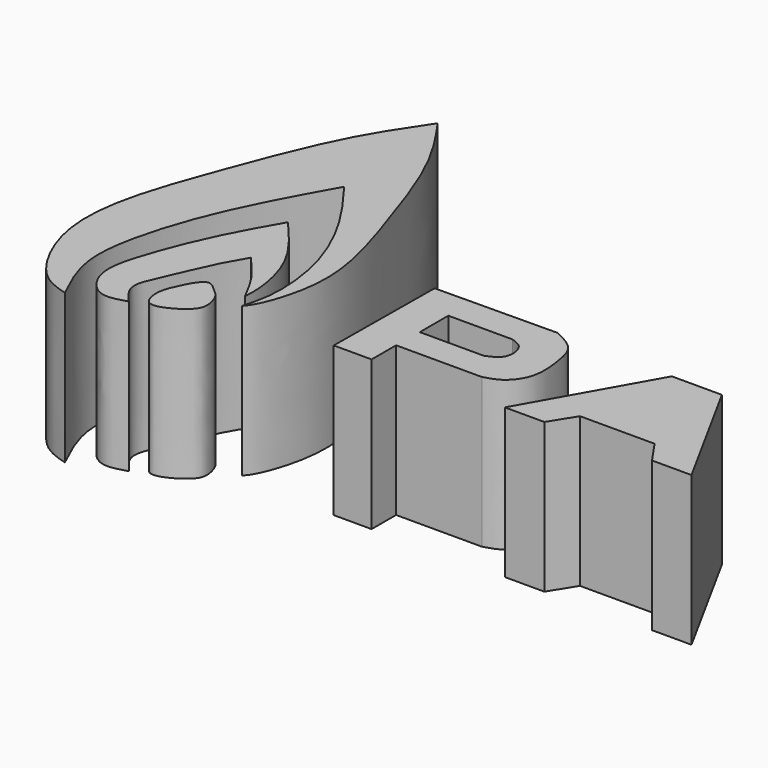
from build123d import *

# Parameters (mm, degrees)
F1_DEPTH = 25


with BuildPart() as f1:
    # F0 (on Top) → F1 (new body)
    with BuildSketch(Plane.XY):
        with BuildLine():
            add(Edge.make_bspline(
                [(-41.9576913118, -6.8883672357), (-41.5673358646, -6.405844601), (-40.3257218658, -4.871071967), (-36.6268515013, 6.4569250109), (-41.888383972, 22.9126051539), (-47.6062593685, 39.8160615159), (-52.2445315368, 46.4850153043), (-54.3009452522, 49.4417473674)],
                knots=[0, 0, 0, 0, 0.0904713648, 0.2877646867, 0.5420700343, 0.7969732202, 1, 1, 1, 1], degree=3))
            add(Edge.make_bspline(
                [(-54.3009452522, 49.4417473674), (-56.6245127919, 46.004743089), (-61.7542486483, 38.4168749578), (-68.4753149095, 20.5243591535), (-73.5796686045, 6.2834538502), (-73.8921084571, -6.0251397612), (-67.9934251663, -16.7878783638), (-64.006824621, -17.9655930829), (-62.3801648617, -18.4461381286)],
                knots=[0, 0, 0, 0, 0.1720572884, 0.3798505644, 0.5652547717, 0.7304797716, 0.8900271786, 1, 1, 1, 1], degree=3))
            add(Edge.make_bspline(
                [(-62.3801648617, -18.4461381286), (-63.62310697, -15.8479508859), (-66.1254432197, -10.6171858509), (-65.5783484616, -1.5758999211), (-61.1693984228, 12.4462867939), (-55.5676507776, 22.4938889957), (-52.6177734137, 27.7849510312)],
                knots=[0, 0, 0, 0, 0.209053081, 0.4208732645, 0.6950321656, 1, 1, 1, 1], degree=3))
            add(Edge.make_bspline(
                [(-52.6177734137, 27.7849510312), (-50.4636866552, 24.8953623282), (-46.0899977938, 19.0282996973), (-41.4299930238, 8.5543105111), (-40.5096135621, -1.4762334808), (-41.5256790902, -5.2737385131), (-41.9576913118, -6.8883672357)],
                knots=[0, 0, 0, 0, 0.2716158812, 0.5514928075, 0.8093030584, 1, 1, 1, 1], degree=3))
        make_face()
    extrude(amount=F1_DEPTH)


with BuildPart() as f1b:
    # F0 (on Top) → F1, piece 2 (new body)
    with BuildSketch(Plane.XY):
        with BuildLine():
            add(Edge.make_bspline(
                [(-54.3009452522, -15.1717299595), (-55.8182732839, -15.631838156), (-59.0076663574, -16.5989763518), (-62.9994129372, -11.1452431495), (-61.1788195389, -3.8303104318), (-57.2168858544, 6.3730874569), (-53.7720303589, 12.3857429005), (-52.074175328, 15.3491813689)],
                knots=[0, 0, 0, 0, 0.1536975661, 0.3230691996, 0.5203691576, 0.763605864, 1, 1, 1, 1], degree=3))
            add(Edge.make_bspline(
                [(-49.6048480272, 4.4841314666), (-50.4209135907, 3.1020925548), (-52.2272735252, 0.042951439), (-54.9835412089, -6.7619114207), (-57.435652053, -11.6598522373), (-55.3173477024, -14.0330329941), (-54.3009452522, -15.1717299595)],
                knots=[0, 0, 0, 0, 0.2439482649, 0.5399791285, 0.7792732943, 1, 1, 1, 1], degree=3))
            add(Edge.make_bspline(
                [(-43.3821380138, -4.5042280108), (-44.1658867861, -2.9818295146), (-45.7774817354, 0.1486248021), (-48.3059970245, 3.012838481), (-49.6048480272, 4.4841314666)],
                knots=[0, 0, 0, 0, 0.4863187072, 1, 1, 1, 1], degree=3))
            add(Edge.make_bspline(
                [(-52.074175328, 15.3491813689), (-49.5377585702, 12.4242643667), (-44.8644959882, 7.035203149), (-43.186499889, -1.2411944036), (-43.3280079894, -3.6013973941), (-43.3821380138, -4.5042280108)],
                knots=[0, 0, 0, 0, 0.4229460762, 0.7792639226, 1, 1, 1, 1], degree=3))
        make_face()
    extrude(amount=F1_DEPTH)


with BuildPart() as f1c:
    # F0 (on Top) → F1, piece 3 (new body)
    with BuildSketch(Plane.XY):
        with BuildLine():
            add(Edge.make_bspline(
                [(-49.6048480272, -4.5042280108), (-50.5433736889, -4.6687663832), (-52.2577599013, -8.1075176875), (-53.2570444245, -10.7419821808), (-52.4595683121, -14.3184464517), (-49.4275431362, -13.774126809), (-46.2608954823, -11.6964249922), (-45.3491672717, -9.739223844), (-46.2925375933, -6.6704537987), (-47.5817941371, -5.854146678), (-48.9071297656, -4.3819069791), (-49.6048480272, -4.5042280108)],
                knots=[0, 0, 0, 0, 0.1362793679, 0.2572290599, 0.3691433177, 0.4740752248, 0.6038306559, 0.6990984055, 0.8120566454, 0.8986872628, 1, 1, 1, 1], degree=3))
        make_face()
    extrude(amount=F1_DEPTH)


with BuildPart() as f1d:
    # F0 (on Top) → F1, piece 4 (new body)
    with BuildSketch(Plane.XY):
        with BuildLine():
            add(Edge.make_bspline(
                [(-25.4437588155, 12.7207208425), (-18.613509989, 12.7828139812), (-11.7832611625, 12.8449071199), (-4.953012336, 12.9070002586)],
                knots=[0, 0, 0, 0, 20.4915931862, 20.4915931862, 20.4915931862, 20.4915931862], degree=3))
            add(Edge.make_bspline(
                [(-25.4437588155, 12.7207208425), (-25.5058519542, 5.7662855834), (-25.5679450929, -1.1881496757), (-25.6300382316, -8.1425849348)],
                knots=[0, 0, 0, 0, 20.8641373648, 20.8641373648, 20.8641373648, 20.8641373648], degree=3))
            add(Edge.make_bspline(
                [(-25.6300382316, -8.1425849348), (-23.5188702742, -8.1425849348), (-21.4077023168, -8.1425849348), (-19.2965343595, -8.1425849348)],
                knots=[0, 0, 0, 0, 6.3335038722, 6.3335038722, 6.3335038722, 6.3335038722], degree=3))
            add(Edge.make_bspline(
                [(-19.2965343595, -8.1425849348), (-19.2965343595, -6.4350225342), (-19.2965343595, -4.7274601335), (-19.2965343595, -3.0198977329)],
                knots=[0, 0, 0, 0, 5.1226872019, 5.1226872019, 5.1226872019, 5.1226872019], degree=3))
            add(Edge.make_bspline(
                [(-19.2965343595, -3.0198977329), (-14.5153603517, -3.0198977329), (-9.7341863438, -3.0198977329), (-4.953012336, -3.0198977329)],
                knots=[0, 0, 0, 0, 14.3435220234, 14.3435220234, 14.3435220234, 14.3435220234], degree=3))
            add(Edge.make_bspline(
                [(-4.953012336, -3.0198977329), (-4.0254750418, -2.7604396842), (-2.0180779612, -2.1989147377), (0.6194293511, 1.2911331305), (0.0972323567, 6.656257704), (-0.8124248147, 10.8576916153), (-3.555134503, 12.2151459961), (-4.953012336, 12.9070002586)],
                knots=[0, 0, 0, 0, 0.1692146105, 0.3662180673, 0.594260818, 0.7932067652, 1, 1, 1, 1], degree=3))
        make_face()
        with BuildLine():
            Line((-19.2033946514, 1.8233696464), (-19.2033946514, 7.3186149821))
            add(Edge.make_bspline(
                [(-19.2033946514, 7.7843139879), (-19.2033946514, 7.629080986), (-19.2033946514, 7.473847984), (-19.2033946514, 7.3186149821)],
                knots=[0, 0, 0, 0, 0.4656990059, 0.4656990059, 0.4656990059, 0.4656990059], degree=3))
            add(Edge.make_bspline(
                [(-8.49232357, 7.7843139879), (-12.0626805971, 7.7843139879), (-15.6330376243, 7.7843139879), (-19.2033946514, 7.7843139879)],
                knots=[0, 0, 0, 0, 10.7110710815, 10.7110710815, 10.7110710815, 10.7110710815], degree=3))
            add(Edge.make_bspline(
                [(-8.49232357, 1.8233696464), (-7.5344311052, 2.2310746944), (-5.5830776866, 3.0616237053), (-6.0332760338, 6.9862959661), (-7.7088715367, 7.5300656123), (-8.49232357, 7.7843139879)],
                knots=[0, 0, 0, 0, 0.3392235658, 0.6910431903, 1, 1, 1, 1], degree=3))
            Line((-8.49232357, 1.8233696464), (-19.2033946514, 1.8233696464))
        make_face(mode=Mode.SUBTRACT)
    extrude(amount=F1_DEPTH)


with BuildPart() as f1e:
    # F0 (on Top) → F1, piece 5 (new body)
    with BuildSketch(Plane.XY):
        with BuildLine():
            add(Edge.make_bspline(
                [(14.3269179389, 12.6275811344), (10.4771410891, 5.7973324632), (6.6273642393, -1.0329162081), (2.7775873896, -7.8631648794)],
                knots=[0, 0, 0, 0, 23.5214308311, 23.5214308311, 23.5214308311, 23.5214308311], degree=3))
            Line((2.7775873896, -7.8631648794), (9.3905096874, -7.8631648794))
            add(Edge.make_bspline(
                [(9.3905096874, -7.8631648794), (10.25981425, -6.4660686379), (11.1291188126, -5.0689723964), (11.9984233752, -3.6718761548)],
                knots=[0, 0, 0, 0, 4.9364070918, 4.9364070918, 4.9364070918, 4.9364070918], degree=3))
            add(Edge.make_bspline(
                [(11.9984233752, -3.6718761548), (16.1586652199, -3.6718761548), (20.3189070647, -3.6718761548), (24.4791489094, -3.6718761548)],
                knots=[0, 0, 0, 0, 12.4807255343, 12.4807255343, 12.4807255343, 12.4807255343], degree=3))
            add(Edge.make_bspline(
                [(24.4791489094, -3.6718761548), (25.3795006623, -4.9758328435), (26.2798524151, -6.2797895322), (27.180204168, -7.5837462209)],
                knots=[0, 0, 0, 0, 4.7537802771, 4.7537802771, 4.7537802771, 4.7537802771], degree=3))
            add(Edge.make_bspline(
                [(27.180204168, -7.5837462209), (29.3815340608, -7.5837462209), (31.5828639536, -7.5837462209), (33.7841938465, -7.5837462209)],
                knots=[0, 0, 0, 0, 6.6039896785, 6.6039896785, 6.6039896785, 6.6039896785], degree=3))
            add(Edge.make_bspline(
                [(33.7841938465, -7.5837462209), (30.0926273832, -0.8466371025), (26.4010609199, 5.890472016), (22.7094944566, 12.6275811344)],
                knots=[0.212411668, 0.212411668, 0.212411668, 0.212411668, 23.2590322454, 23.2590322454, 23.2590322454, 23.2590322454], degree=3))
            add(Edge.make_bspline(
                [(22.7094944566, 12.6275811344), (19.9153022841, 12.6275811344), (17.1211101115, 12.6275811344), (14.3269179389, 12.6275811344)],
                knots=[0, 0, 0, 0, 8.3825765178, 8.3825765178, 8.3825765178, 8.3825765178], degree=3))
        make_face()
    extrude(amount=F1_DEPTH)


solid = Compound([f1.part, f1b.part, f1c.part, f1d.part, f1e.part])
